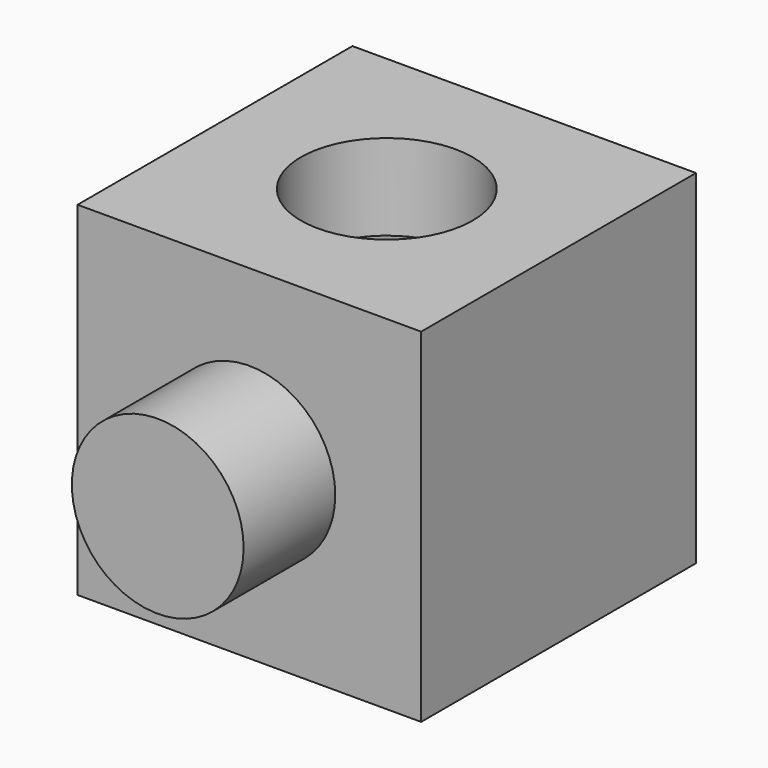
from build123d import *

# Parameters (mm, degrees)
F0_W     = 76.2
F0_H     = 76.2
F1_DEPTH = 76.2
F2_R     = 19.05
F3_DEPTH = 25.4
F4_R     = 19.05
F5_DEPTH = 25.4
F6_W     = 38.1
F6_H     = 38.1
F7_DEPTH = 38.1


with BuildPart() as f1:
    # F0 (on Front) → F1 (new body)
    with BuildSketch(Plane.XZ):
        with Locations((4.383184, 4.518054)):
            Rectangle(F0_W, F0_H)
    extrude(amount=F1_DEPTH)

    # F2 (on face) → F3 (join)
    with BuildSketch(Plane.XZ.offset(76.2)):
        with Locations((4.383184, 4.518054)):
            Circle(F2_R)
    extrude(amount=F3_DEPTH)

    # F4 (on face) → F5 (cut)
    with BuildSketch(Plane.XY.offset(42.618054)):
        with Locations((4.383184, -38.1)):
            Circle(F4_R)
    extrude(amount=-F5_DEPTH, mode=Mode.SUBTRACT)

    # F6 (on face) → F7 (cut)
    with BuildSketch(Plane(origin=(-33.716816, 0, 0), x_dir=(0, -1, 0), z_dir=(-1, 0, 0))):
        with Locations((38.1, 4.518054)):
            Rectangle(F6_W, F6_H)
    extrude(amount=-F7_DEPTH, mode=Mode.SUBTRACT)


solid = f1.part
